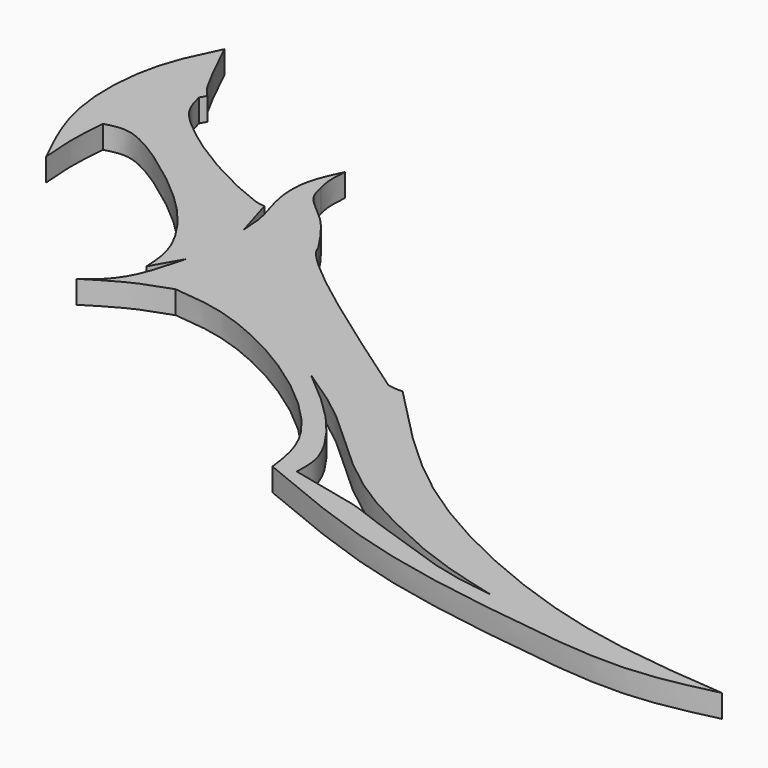
from build123d import *

# Parameters (mm, degrees)
F1_DEPTH = 2


with BuildPart() as f1:
    # F0 (on Top) → F1 (new body)
    with BuildSketch(Plane.XY):
        with BuildLine():
            add(Edge.make_bspline(
                [(-36.892823875, 31.6735059023), (-36.4760806127, 30.8190486114), (-35.6495646799, 29.1244259772), (-34.4112406826, 26.5460839174), (-33.7509094867, 25.8287067164), (-33.4834083915, 25.5380962044)],
                knots=[0, 0, 0, 0, 0.3769541602, 0.747603255, 1, 1, 1, 1], degree=3))
            add(Edge.make_bspline(
                [(-36.892823875, 31.6735059023), (-37.7018029806, 30.0496942096), (-39.4603508818, 26.5198741879), (-39.7735037577, 18.3988282966), (-37.56293815, 13.8810475091), (-36.4681892097, 11.6436854005)],
                knots=[0, 0, 0, 0, 0.3007147223, 0.6536896195, 1, 1, 1, 1], degree=3))
            add(Edge.make_bspline(
                [(-36.4681892097, 11.6436854005), (-36.554270953, 12.6805721324), (-36.7263742072, 14.7536200744), (-36.5542307934, 16.8244792552), (-36.4681892097, 17.8595464677)],
                knots=[0, 0, 0, 0, 0.5001749892, 1, 1, 1, 1], degree=3))
            add(Edge.make_bspline(
                [(-36.4681892097, 17.8595464677), (-36.1708702835, 17.942598625), (-35.5072143903, 18.1279822275), (-33.9738334279, 18.1879789291), (-31.2473096137, 16.6283992854), (-28.7220369021, 14.8249586571), (-24.270504214, 11.2062513215), (-21.1496860764, 6.5500019062), (-21.0323364073, 4.2435073738), (-20.9819823503, 3.2538040541)],
                knots=[0, 0, 0, 0, 0.0799667213, 0.1784964937, 0.3200286886, 0.4665624345, 0.6630139011, 0.855401235, 1, 1, 1, 1], degree=3))
            add(Edge.make_bspline(
                [(-20.9819823503, 3.2538040541), (-20.5000173301, 4.0987795219), (-20.0180523098, 4.9437549897), (-19.5360872895, 5.7887304574)],
                knots=[0, 0, 0, 0, 2.9182982023, 2.9182982023, 2.9182982023, 2.9182982023], degree=3))
            add(Edge.make_bspline(
                [(-19.5360872895, 5.7887304574), (-19.8500836866, 4.586843161), (-20.4274520359, 2.3768442855), (-21.7515211634, 0.14059123), (-22.9656937007, -0.7382427101), (-23.5499478877, -1.1611335212)],
                knots=[0, 0, 0, 0, 0.3821544491, 0.7026955898, 1, 1, 1, 1], degree=3))
            add(Edge.make_bspline(
                [(-17.3162166029, 1.8595310394), (-18.2871066723, 1.5320481384), (-20.3278701105, 0.843695098), (-22.4417454777, -0.4715921566), (-23.5499478877, -1.1611335212)],
                knots=[0, 0, 0, 0, 0.4757484631, 1, 1, 1, 1], degree=3))
            add(Edge.make_bspline(
                [(-17.3162166029, 1.8595310394), (-15.7682654481, 1.7280546914), (-12.07998653, 1.4147880609), (-3.5902190594, -2.7617762182), (3.5822844795, -9.4363200449), (4.0366641771, -13.0078754651), (4.2238375172, -14.4791118801)],
                knots=[0, 0, 0, 0, 0.2113014094, 0.5034645513, 0.7954613753, 1, 1, 1, 1], degree=3))
            add(Edge.make_bspline(
                [(4.2238375172, -14.4791118801), (8.4928711, -16.271153987), (17.080837153, -19.8761846062), (31.1894987095, -21.9706650529), (41.5804381145, -23.2279662738), (46.7438639151, -22.0135830549), (49.1163358092, -21.4556027204)],
                knots=[0, 0, 0, 0, 0.277603635, 0.5584520589, 0.7971191762, 1, 1, 1, 1], degree=3))
            add(Edge.make_bspline(
                [(4.2238375172, -0.2498186077), (7.1678333192, -3.3280872191), (12.9566913774, -9.3809695107), (23.060574172, -15.4634069035), (35.9625991683, -20.3647968854), (44.7540193116, -21.093846938), (49.1163358092, -21.4556027204)],
                knots=[0, 0, 0, 0, 0.2479261528, 0.4875038567, 0.7456986079, 1, 1, 1, 1], degree=3))
            add(Edge.make_bspline(
                [(2.8798265848, -0.1270156063), (3.1250806645, -0.1786100019), (3.5959650034, -0.2776705066), (4.0204433049, -0.2588410046), (4.2238375172, -0.2498186077)],
                knots=[0, 0, 0, 0, 0.5208371982, 1, 1, 1, 1], degree=3))
            add(Edge.make_bspline(
                [(-13.5553438542, 12.7646509897), (-13.5118544386, 12.6083215107), (-12.7576294229, 10.7088283093), (-4.5788480056, 5.0414103601), (2.8798265848, -0.1270156063)],
                knots=[0.6164442698, 0.6164442698, 0.6164442698, 0.6164442698, 0.6502147162, 1, 1, 1, 1], degree=3))
            add(Edge.make_bspline(
                [(-18.9239028841, 19.7896957397), (-18.8216414365, 19.2603015368), (-18.5814122526, 18.0148186233), (-15.8728443578, 16.2848236323), (-14.37488704, 14.0052965922), (-13.5553438542, 12.7646509897)],
                knots=[0, 0, 0, 0, 0.25175726, 0.5923143721, 1, 1, 1, 1], degree=3))
            add(Edge.make_bspline(
                [(-19.1046763211, 22.6151496172), (-19.1766473117, 21.6857871331), (-19.2486183023, 20.7564246489), (-18.9239028841, 19.7896957397)],
                knots=[0, 0, 0, 0, 0.1303574771, 0.1303574771, 0.1303574771, 0.1303574771], degree=3))
            add(Edge.make_bspline(
                [(-19.1749576479, 11.6436854005), (-19.2095643861, 12.3967065777), (-19.2827182831, 13.9884900451), (-20.3541623487, 16.6548297738), (-20.4335841428, 19.8942270324), (-19.5439070905, 21.7158299648), (-19.1046763211, 22.6151496172)],
                knots=[0, 0, 0, 0, 0.2260384323, 0.4778142374, 0.7421985274, 1, 1, 1, 1], degree=3))
            add(Edge.make_bspline(
                [(-20.2583502978, 15.2437789366), (-19.8972194145, 14.0437477579), (-19.5360885312, 12.8437165792), (-19.1749576479, 11.6436854005)],
                knots=[0, 0, 0, 0, 3.7595761865, 3.7595761865, 3.7595761865, 3.7595761865], degree=3))
            add(Edge.make_bspline(
                [(-33.7876603007, 24.9949414283), (-33.6236251779, 24.3653589146), (-33.2678738045, 22.9999510678), (-31.2021192365, 21.0072148981), (-26.94393059, 17.9530097539), (-21.3534839337, 15.3316633489), (-20.4992969927, 15.2631148952), (-20.2583502978, 15.2437789366)],
                knots=[0, 0, 0, 0, 0.1581489893, 0.342985814, 0.6121221714, 0.8905884926, 1, 1, 1, 1], degree=3))
            add(Edge.make_bspline(
                [(-33.4834083915, 25.5380962044), (-33.5848256946, 25.3570446124), (-33.6862429976, 25.1759930203), (-33.7876603007, 24.9949414283)],
                knots=[0, 0, 0, 0, 0.622564322, 0.622564322, 0.622564322, 0.622564322], degree=3))
        make_face()
        with BuildLine():
            add(Edge.make_bspline(
                [(-2.1478733979, -2.288002288), (-0.4522814448, -3.6999078404), (2.7913596471, -6.4008612505), (6.1182947522, -11.1734082674), (6.0187813393, -13.1958650317), (5.9781298041, -14.0220448375)],
                knots=[0, 0, 0, 0, 0.3931566872, 0.7521026411, 1, 1, 1, 1], degree=3))
            add(Edge.make_bspline(
                [(-2.1478733979, -2.288002288), (-0.5462224835, -3.3341756546), (2.6993845378, -5.454155479), (6.9996734971, -9.7852308012), (11.602665591, -13.528953047), (16.958015429, -16.2629965495), (21.9219759964, -18.468036587), (25.6644100983, -19.4385856638), (27.5677610189, -19.9321936816)],
                knots=[0, 0, 0, 0, 0.1657579821, 0.3358942112, 0.504252867, 0.672701612, 0.8335405057, 1, 1, 1, 1], degree=3))
            add(Edge.make_bspline(
                [(5.9781298041, -14.0220448375), (8.7326251969, -14.6373284967), (12.4255044394, -15.4622230526), (13.0138800096, -15.8266776047), (19.3691208857, -18.0172715029), (23.385602125, -19.3864852085), (26.2128834491, -19.7554026536), (27.5677610189, -19.9321936816)],
                knots=[0, 0, 0, 0, 0.2528522054, 0.3389922754, 0.5861108766, 0.8016578383, 1, 1, 1, 1], degree=3))
        make_face(mode=Mode.SUBTRACT)
    extrude(amount=F1_DEPTH)


solid = f1.part
